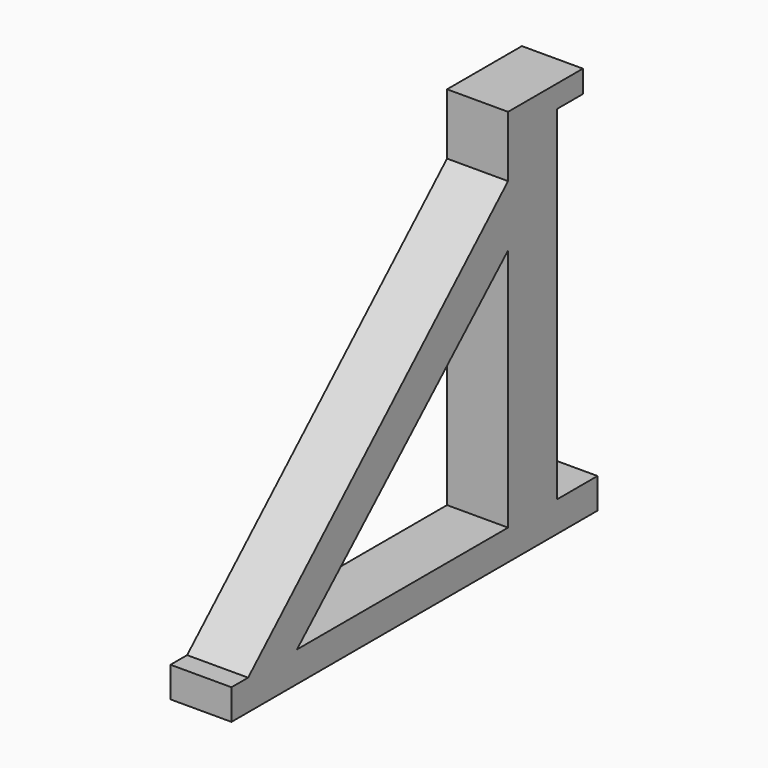
from build123d import *

# Parameters (mm, degrees)
F0_W      = 30
F0_H      = 50
F1_DEPTH  = 15
F2_W      = 30
F2_H      = 30
F3_DEPTH  = 150
F4_DEPTH  = 160
F6_DEPTH  = 30
F7_W      = 16.00820072
F7_H      = 6
F8_DEPTH  = 30
F9_DEPTH  = 15
F10_DEPTH = 5


with BuildPart() as f1:
    # F0 (on Top) → F1 (new body)
    with BuildSketch(Plane.XY):
        Rectangle(F0_W, F0_H)
    extrude(amount=F1_DEPTH)

    # F2 (on face) → F3 (join)
    with BuildSketch(Plane.XY.offset(15)):
        Rectangle(F2_W, F2_H)
    extrude(amount=F3_DEPTH)

    # F4 (add): a face of the model
    f4_faces = [f1.faces().sort_by_distance(p)[0] for p in [
        (0, -25, 7.5),
    ]]
    extrude(f4_faces, amount=F4_DEPTH)

    # F5 (on face) → F6 (join)
    with BuildSketch(Plane(origin=(-15, 0, 0), x_dir=(0, -1, 0), z_dir=(-1, 0, 0))):
        Polygon((144.7644245625, 15), (174.7644245625, 15), (15, 165), (15, 135), align=None)
    extrude(amount=-F6_DEPTH)

    # F7 (on face) → F8 (join)
    with BuildSketch(Plane(origin=(-15, 0, 0), x_dir=(0, -1, 0), z_dir=(-1, 0, 0))):
        Polygon((-15, 189), (-15, 165), (15, 165), (15, 195), (-15, 195), align=None)
        with Locations((-23.00410036, 192)):
            Rectangle(F7_W, F7_H)
    extrude(amount=-F8_DEPTH)

    # F9 (add): a face of the model
    f9_faces = [f1.faces().sort_by_distance(p)[0] for p in [
        (0, 25, 7.5),
    ]]
    extrude(f9_faces, amount=F9_DEPTH)

    # F10 (add): a face of the model
    f10_faces = [f1.faces().sort_by_distance(p)[0] for p in [
        (0, 23.00410036, 189),
    ]]
    extrude(f10_faces, amount=F10_DEPTH)


solid = f1.part
